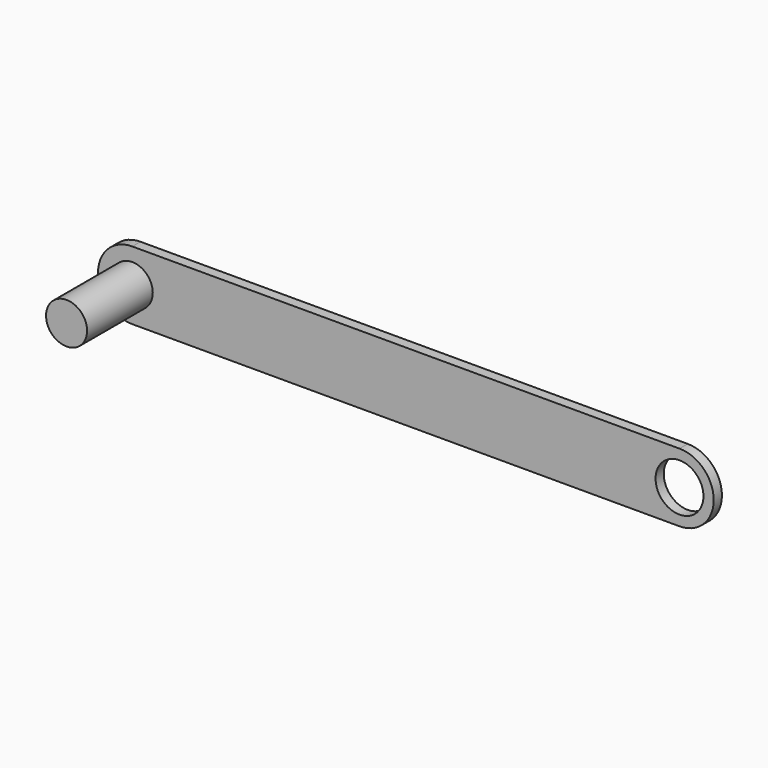
from build123d import *

# Parameters (mm, degrees)
F0_R     = 3.5
F1_DEPTH = 1.5
F2_R     = 3
F3_DEPTH = 12


with BuildPart() as f1:
    # F0 (on Front) → F1 (new body)
    with BuildSketch(Plane.XZ):
        with BuildLine():
            Line((80, 5), (0, 5))
            ThreePointArc((0, 5), (-5, 0), (0, -5))
            Line((0, -5), (80, -5))
            ThreePointArc((80, -5), (85, 0), (80, 5))
        make_face()
        with Locations((80, 0)):
            Circle(F0_R, mode=Mode.SUBTRACT)
    extrude(amount=F1_DEPTH)

    # F2 (on face) → F3 (join)
    with BuildSketch(Plane.XZ.offset(1.5)):
        Circle(F2_R)
    extrude(amount=F3_DEPTH)


solid = f1.part
